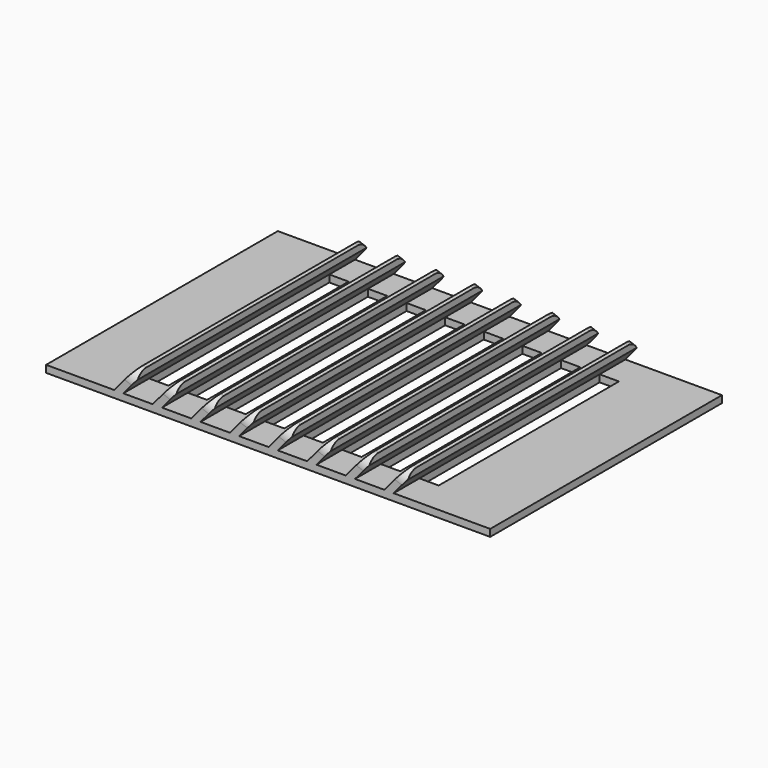
from build123d import *

# Parameters (mm, degrees)
F0_W     = 69
F0_H     = 45
F0_W_2   = 3
F0_H_2   = 35
F1_DEPTH = 1.1
F3_DEPTH = 45
F4_SIZE  = 0.7
F5_R     = 2


with BuildPart() as f1:
    # F0 (on Top) → F1 (new body)
    with BuildSketch(Plane.XY):
        with Locations((34.5, -22.5)):
            Rectangle(F0_W, F0_H)
        with Locations((13.5, -22.5)):
            Rectangle(F0_W_2, F0_H_2, mode=Mode.SUBTRACT)
        with Locations((19.5, -22.5)):
            Rectangle(F0_W_2, F0_H_2, mode=Mode.SUBTRACT)
        with Locations((25.5, -22.5)):
            Rectangle(F0_W_2, F0_H_2, mode=Mode.SUBTRACT)
        with Locations((31.5, -22.5)):
            Rectangle(F0_W_2, F0_H_2, mode=Mode.SUBTRACT)
        with Locations((37.5, -22.5)):
            Rectangle(F0_W_2, F0_H_2, mode=Mode.SUBTRACT)
        with Locations((43.5, -22.5)):
            Rectangle(F0_W_2, F0_H_2, mode=Mode.SUBTRACT)
        with Locations((49.5, -22.5)):
            Rectangle(F0_W_2, F0_H_2, mode=Mode.SUBTRACT)
        with Locations((55.5, -22.5)):
            Rectangle(F0_W_2, F0_H_2, mode=Mode.SUBTRACT)
    extrude(amount=F1_DEPTH)

    # F2 (on face) → F3 (join, through all)
    with BuildSketch(Plane(origin=(0, 0, 0), x_dir=(-1, 0, 0), z_dir=(0, 1, 0))):
        Polygon((-12, 1.1), (-10.5640519817, 1.1), (-14, 5.1948033947), (-14, 3.4835071852), align=None)
        Polygon((-18, 1.1), (-16.5640519817, 1.1), (-20, 5.1948033947), (-20, 3.4835071852), align=None)
        Polygon((-24, 1.1), (-22.5640519817, 1.1), (-26, 5.1948033947), (-26, 3.4835071852), align=None)
        Polygon((-32, 3.4835071852), (-30, 1.1), (-28.5640519817, 1.1), (-32, 5.1948033947), align=None)
        Polygon((-38, 3.4835071852), (-36, 1.1), (-34.5640519817, 1.1), (-38, 5.1948033947), align=None)
        Polygon((-44, 3.4835071852), (-42, 1.1), (-40.5640519817, 1.1), (-44, 5.1948033947), align=None)
        Polygon((-50, 3.4835071852), (-48, 1.1), (-46.5640519817, 1.1), (-50, 5.1948033947), align=None)
        Polygon((-56, 3.4835071852), (-54, 1.1), (-52.5640519817, 1.1), (-56, 5.1948033947), align=None)
    extrude(amount=-F3_DEPTH)

    # F4
    f4_edges = [f1.edges().sort_by_distance(p)[0] for p in [
        (14, -22.5, 5.194803),
        (20, -22.5, 5.194803),
        (26, -22.5, 5.194803),
        (32, -22.5, 5.194803),
        (38, -22.5, 5.194803),
        (44, -22.5, 5.194803),
        (50, -22.5, 5.194803),
        (56, -22.5, 5.194803),
    ]]
    chamfer(f4_edges, length=F4_SIZE)

    # F5
    f5_edges = [f1.edges().sort_by_distance(p)[0] for p in [
        (25.775024, -45, 4.576688),
        (13.775024, -45, 4.576688),
        (19.775024, -45, 4.576688),
        (31.775024, -45, 4.576688),
        (37.775024, -45, 4.576688),
        (43.775024, -45, 4.576688),
        (49.775024, -45, 4.576688),
        (55.775024, -45, 4.576688),
        (13.775024, 0, 4.576688),
        (19.775024, 0, 4.576688),
        (25.775024, 0, 4.576688),
        (31.775024, 0, 4.576688),
        (37.775024, 0, 4.576688),
        (43.775024, 0, 4.576688),
        (49.775024, 0, 4.576688),
        (55.775024, 0, 4.576688),
    ]]
    fillet(f5_edges, radius=F5_R)


solid = f1.part
